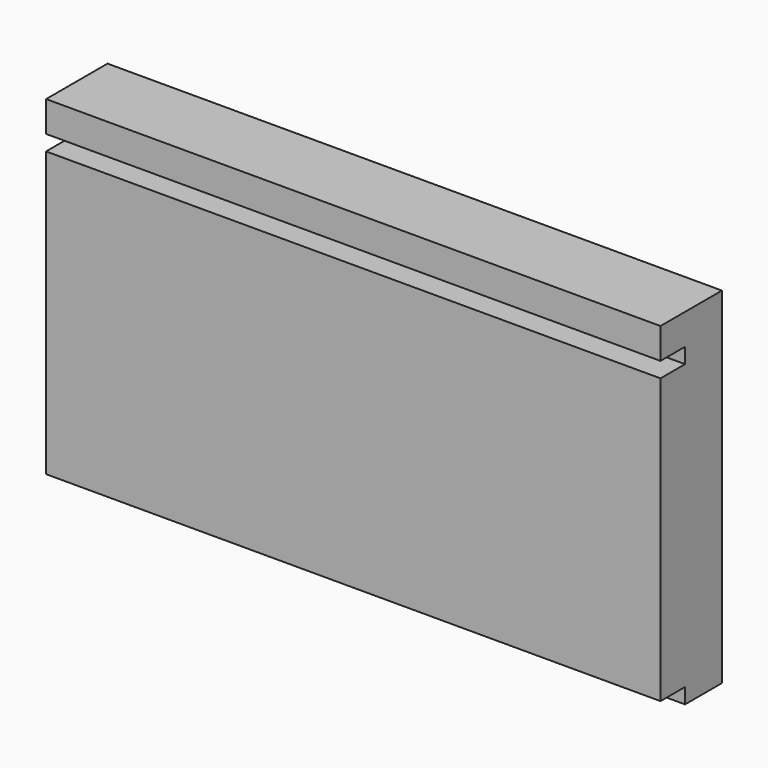
from build123d import *

# Parameters (mm, degrees)
F0_W     = 160
F0_H     = 4
F1_DEPTH = 12
F0_H_2   = 8
F0_H_3   = 74
F2_DEPTH = 20


with BuildPart() as f1:
    # F0 (on Front) → F1 (new body)
    with BuildSketch(Plane.XZ):
        with Locations((0, -43)):
            Rectangle(F0_W, F0_H)
    extrude(amount=F1_DEPTH)



with BuildPart() as f1b:
    # F0 (on Front) → F1, piece 2 (new body)
    with BuildSketch(Plane.XZ):
        with Locations((0, 35)):
            Rectangle(F0_W, F0_H)
    extrude(amount=F1_DEPTH)


with BuildPart() as f1_1:
    add(f1.part)

    add(f1b.part)  # F2 merges F1b
    # F0 (on Front) → F2 (join)
    with BuildSketch(Plane.XZ):
        with Locations((0, 41)):
            Rectangle(F0_W, F0_H_2)
        with Locations((0, -4)):
            Rectangle(F0_W, F0_H_3)
    extrude(amount=F2_DEPTH)


solid = f1_1.part
